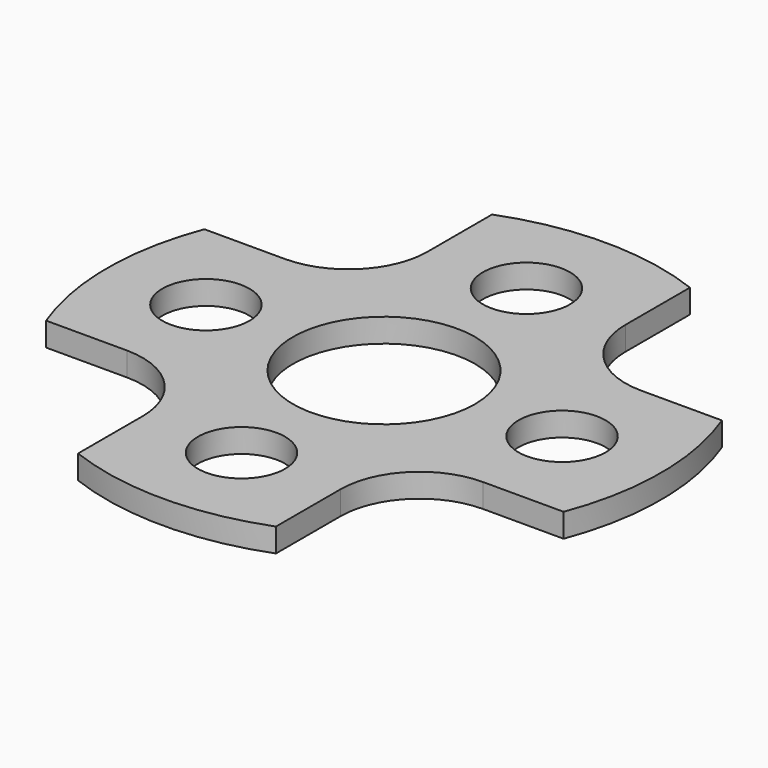
from build123d import *

# Parameters (mm, degrees)
F0_R     = 1.1
F0_R_2   = 2.3
F1_DEPTH = 0.6


with BuildPart() as f1:
    # F0 (on Top) → F1 (new body)
    with BuildSketch(Plane.XY):
        with BuildLine():
            Line((2.5, 4.5), (2.5, 6.538348))
            ThreePointArc((2.5, 6.538348), (0, 7), (-2.5, 6.538348))
            Line((-2.5, 6.538348), (-2.5, 4.5))
            ThreePointArc((-2.5, 4.5), (-3.085786, 3.085786), (-4.5, 2.5))
            Line((-4.5, 2.5), (-6.538348, 2.5))
            ThreePointArc((-6.538348, 2.5), (-7, 0), (-6.538348, -2.5))
            Line((-6.538348, -2.5), (-4.5, -2.5))
            ThreePointArc((-4.5, -2.5), (-3.085786, -3.085786), (-2.5, -4.5))
            Line((-2.5, -4.5), (-2.5, -6.538348))
            ThreePointArc((-2.5, -6.538348), (0, -7), (2.5, -6.538348))
            Line((2.5, -6.538348), (2.5, -4.5))
            ThreePointArc((2.5, -4.5), (3.085786, -3.085786), (4.5, -2.5))
            Line((4.5, -2.5), (6.538348, -2.5))
            ThreePointArc((6.538348, -2.5), (7, 0), (6.538348, 2.5))
            Line((6.538348, 2.5), (4.5, 2.5))
            ThreePointArc((4.5, 2.5), (3.085786, 3.085786), (2.5, 4.5))
        make_face()
        with Locations((0, -4.5)):
            Circle(F0_R, mode=Mode.SUBTRACT)
        with Locations((-4.5, 0)):
            Circle(F0_R, mode=Mode.SUBTRACT)
        Circle(F0_R_2, mode=Mode.SUBTRACT)
        with Locations((4.5, 0)):
            Circle(F0_R, mode=Mode.SUBTRACT)
        with Locations((0, 4.5)):
            Circle(F0_R, mode=Mode.SUBTRACT)
    extrude(amount=F1_DEPTH)


solid = f1.part
